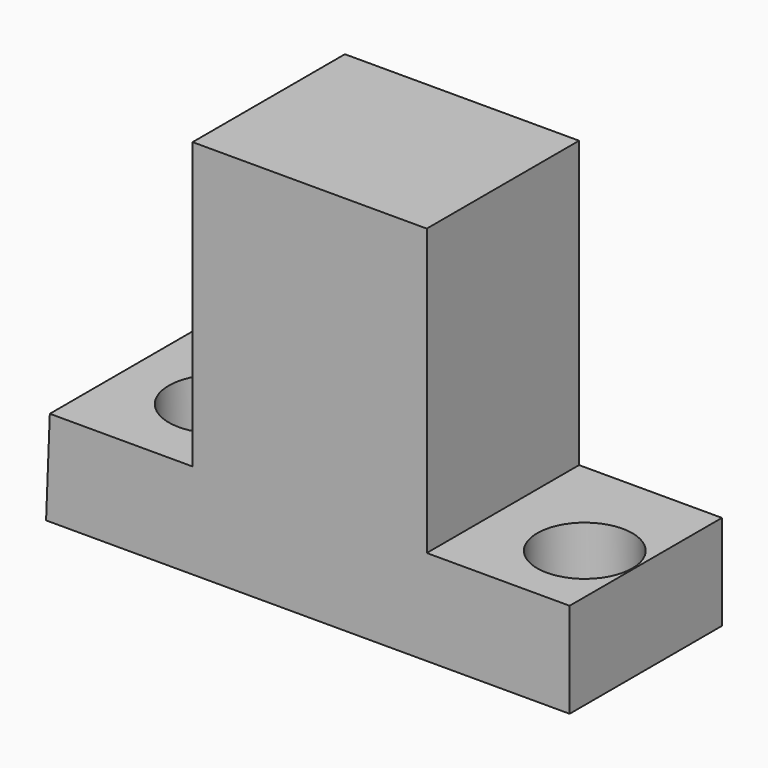
from build123d import *

# Parameters (mm, degrees)
F1_DEPTH = 25.4
F2_R     = 6.6675
F3_DEPTH = 12.7
F4_R     = 6.35
F5_DEPTH = 12.7


with BuildPart() as f1:
    # F0 (on Front) → F1 (new body)
    with BuildSketch(Plane.XZ):
        Polygon((-37.221345, 12.690246), (-37.719001, 0), (32.130999, 0), (32.130999, 12.690246), (13.070659, 12.690246), (13.070659, 50.790246), (-18.171345, 50.790246), (-18.171345, 12.690246), align=None)
    extrude(amount=F1_DEPTH)

    # F2 (on face) → F3 (cut)
    with BuildSketch(Plane.XY.offset(12.690246)):
        with Locations((-24.838845, -12.7)):
            Circle(F2_R)
    extrude(amount=-F3_DEPTH, mode=Mode.SUBTRACT)

    # F4 (on face) → F5 (cut)
    with BuildSketch(Plane.XY.offset(12.690246)):
        with Locations((25.609393, -14.717459)):
            Circle(F4_R)
    extrude(amount=-F5_DEPTH, mode=Mode.SUBTRACT)


solid = f1.part
